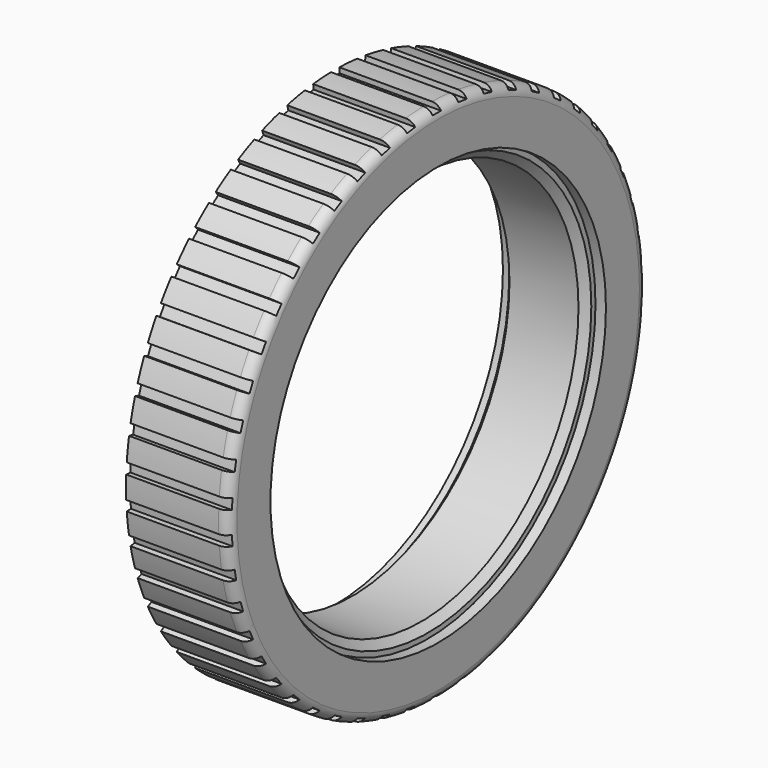
from build123d import *

# Parameters (mm, degrees)
SKETCH001_W        = 2
SKETCH001_H        = 1
POCKET_DEPTH       = 305.274739
POLARPATTERN_COUNT = 50


with BuildPart() as part:
    # Sketch → Revolution (revolve)
    with BuildSketch(Plane.XY):
        with BuildLine():
            Line((-7.85, 39.1), (-6.6, 37.6))
            Line((-6.6, 37.6), (6.6, 37.6))
            Line((6.6, 37.6), (7.85, 39.1))
            Line((7.85, 39.1), (7.85, 40.1))
            Line((7.85, 40.1), (9.85, 40.1))
            Line((9.85, 40.1), (9.85, 48.1))
            ThreePointArc((9.85, 48.1), (9.230906, 49.449138), (7.852502, 50))
            Line((7.852502, 50), (-9.85, 50))
            Line((-9.85, 50), (-9.85, 40.1))
            Line((-9.85, 40.1), (-7.85, 40.1))
            Line((-7.85, 39.1), (-7.85, 40.1))
        make_face()
        with BuildLine():
            Line((-4.85, 48), (4.85, 48))
            ThreePointArc((6.85, 46), (6.264214, 47.414214), (4.85, 48))
            Line((6.85, 46), (6.85, 41.6))
            ThreePointArc((4.85, 39.6), (6.264214, 40.185786), (6.85, 41.6))
            Line((4.85, 39.6), (-4.85, 39.6))
            ThreePointArc((-6.85, 41.6), (-6.264214, 40.185786), (-4.85, 39.6))
            Line((-6.85, 41.6), (-6.85, 46))
            ThreePointArc((-4.85, 48), (-6.264214, 47.414214), (-6.85, 46))
        make_face(mode=Mode.SUBTRACT)
    revolve(axis=Axis((0, 0, 0), (1, 0, 0)))

    # Sketch001 (on Face9 of Revolution) → Pocket (cut, through all)
    with BuildSketch(Plane(origin=(-9.85, 0, 0), x_dir=(0, -1, 0), z_dir=(-1, 0, 0))):
        with Locations((0, 49.5)):
            Rectangle(SKETCH001_W, SKETCH001_H)
    pocket = extrude(amount=-POCKET_DEPTH, mode=Mode.SUBTRACT)

    # PolarPattern: Pocket ×50 about axis
    polarpattern_axis = Axis((-9.85, 0, 0), (-1, 0, 0))
    for i in range(1, POLARPATTERN_COUNT):
        add(pocket.rotate(polarpattern_axis, i * 360 / POLARPATTERN_COUNT), mode=Mode.SUBTRACT)


solid = part.part
